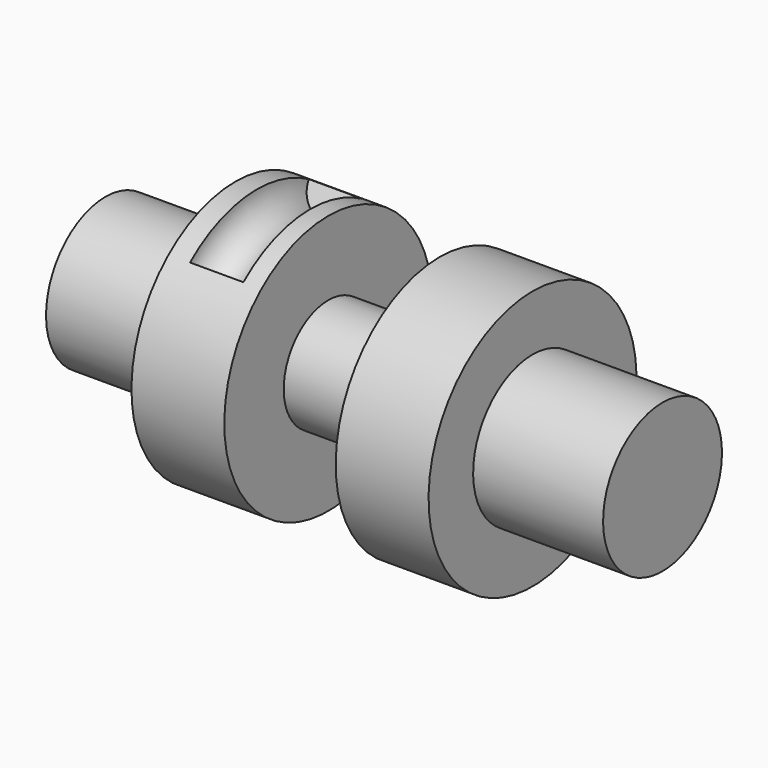
from build123d import *

# Parameters (mm, degrees)
F2_R          = 7.186555345
F3_ANGLE_BACK = 40
F3_ANGLE      = 70


with BuildPart() as f1:
    # F0 (on Front) → F1 (revolve)
    with BuildSketch(Plane.XZ):
        Polygon((0, 20), (0, 0), (150, 0), (150, 20), (115, 20), (115, 35), (90, 35), (90, 15), (60, 15), (60, 35), (35, 35), (35, 20), align=None)
    revolve(axis=Axis((75, 0, 0), (-1, 0, 0)))

    # F2 (on Front) → F3 (revolve, cut)
    with BuildSketch(Plane.XZ, mode=Mode.PRIVATE) as f3_sk:
        with Locations((47.9439608753, 34.906566143)):
            Circle(F2_R)
    revolve(f3_sk.sketch.rotate(Axis((83.0608084798, 0, 0), (-1, 0, 0)), -F3_ANGLE_BACK), axis=Axis((83.0608084798, 0, 0), (-1, 0, 0)), revolution_arc=F3_ANGLE, mode=Mode.SUBTRACT)


solid = f1.part
